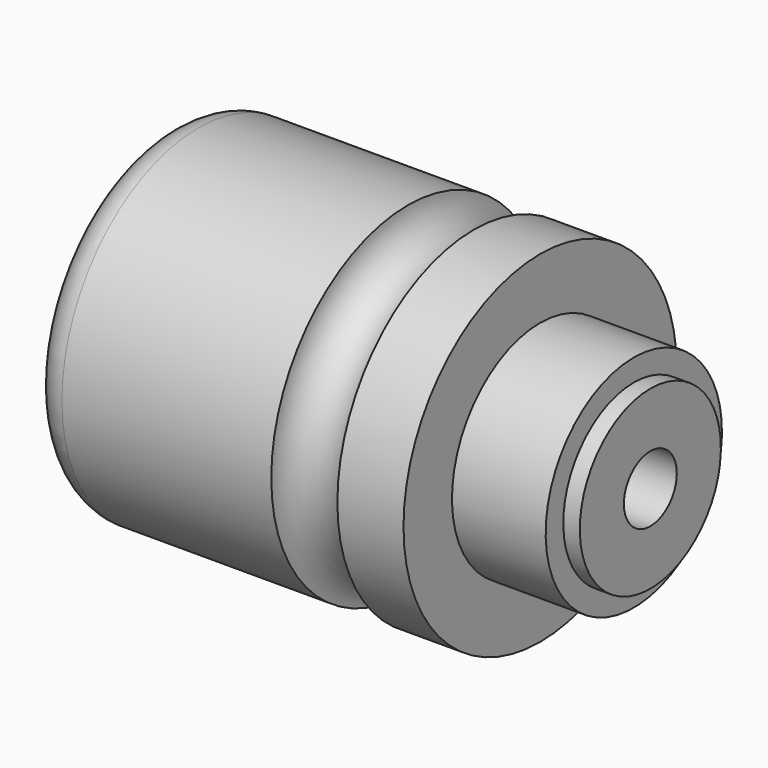
from build123d import *


with BuildPart() as f1:
    # F0 (on Front) → F1 (revolve)
    with BuildSketch(Plane.XZ):
        with BuildLine():
            Line((1.5, 25), (1.5, 16))
            Line((1.5, 16), (12, 16))
            Line((12, 16), (12, 12.5))
            Line((12, 12.5), (15, 12.5))
            Line((15, 12.5), (15, 20.5))
            Line((15, 20.5), (22, 20.5))
            Line((22, 20.5), (22, 16))
            Line((22, 16), (30, 16))
            Line((30, 16), (30, 6))
            Line((30, 6), (88, 6))
            Line((88, 6), (88, 16))
            Line((88, 16), (85, 16))
            Line((85, 16), (85, 20))
            Line((85, 20), (68, 20))
            Line((68, 20), (68, 31))
            Line((68, 31), (56, 31))
            ThreePointArc((56, 31), (50, 25), (44, 31))
            Line((44, 31), (6, 31))
            ThreePointArc((6, 31), (1.757359, 29.242641), (0, 25))
            Line((0, 25), (1.5, 25))
        make_face()
    revolve(axis=Axis((43.84983, 0, 0), (1, 0, 0)))


solid = f1.part
